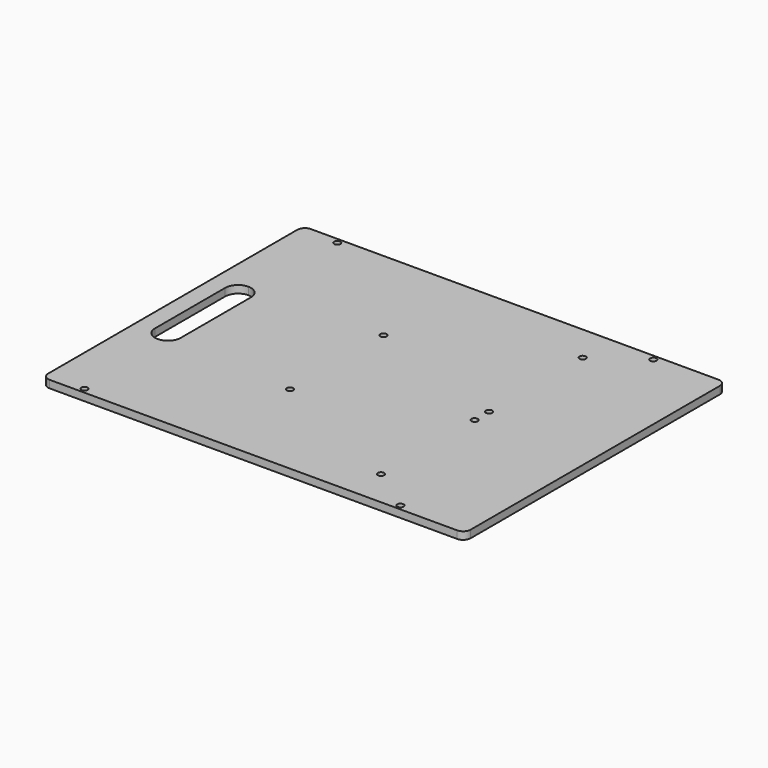
from build123d import *

# Parameters (mm, degrees)
F0_R     = 2.125
F1_DEPTH = 2.5


with BuildPart() as f1:
    # F0 (on Top) → F1 (new body, symmetric)
    with BuildSketch(Plane.XY):
        with BuildLine():
            Line((-134.7, -107.95), (134.7, -107.95))
            ThreePointArc((134.7, -107.95), (138.235534, -106.485534), (139.7, -102.95))
            Line((139.7, -102.95), (139.7, 0))
            Line((139.7, 0), (139.7, 102.95))
            ThreePointArc((139.7, 102.95), (138.235534, 106.485534), (134.7, 107.95))
            Line((134.7, 107.95), (-134.7, 107.95))
            ThreePointArc((-134.7, 107.95), (-138.235534, 106.485534), (-139.7, 102.95))
            Line((-139.7, 102.95), (-139.7, 0))
            Line((-139.7, 0), (-139.7, -102.95))
            ThreePointArc((-139.7, -102.95), (-138.235534, -106.485534), (-134.7, -107.95))
        make_face()
        with Locations((-114.5, -104.5)):
            Circle(F0_R, mode=Mode.SUBTRACT)
        with Locations((-31.2, -38.682)):
            Circle(F0_R, mode=Mode.SUBTRACT)
        with Locations((64.7, -83.364)):
            Circle(F0_R, mode=Mode.SUBTRACT)
        with Locations((94.5, -104.5)):
            Circle(F0_R, mode=Mode.SUBTRACT)
        with Locations((64.7, -6)):
            Circle(F0_R, mode=Mode.SUBTRACT)
        with BuildLine():
            ThreePointArc((-119.7, 37.5), (-113.689592, 35.010408), (-111.2, 29))
            Line((-111.2, 29), (-111.2, -29))
            ThreePointArc((-111.2, -29), (-113.689592, -35.010408), (-119.7, -37.5))
            ThreePointArc((-119.7, -37.5), (-125.710408, -35.010408), (-128.2, -29))
            Line((-128.2, -29), (-128.2, 29))
            ThreePointArc((-128.2, 29), (-125.710408, 35.010408), (-119.7, 37.5))
        make_face(mode=Mode.SUBTRACT)
        with Locations((-31.2, 38.682)):
            Circle(F0_R, mode=Mode.SUBTRACT)
        with Locations((-114.5, 104.5)):
            Circle(F0_R, mode=Mode.SUBTRACT)
        with Locations((64.7, 6)):
            Circle(F0_R, mode=Mode.SUBTRACT)
        with Locations((64.7, 83.364)):
            Circle(F0_R, mode=Mode.SUBTRACT)
        with Locations((94.5, 104.5)):
            Circle(F0_R, mode=Mode.SUBTRACT)
    extrude(amount=F1_DEPTH, both=True)


solid = f1.part
